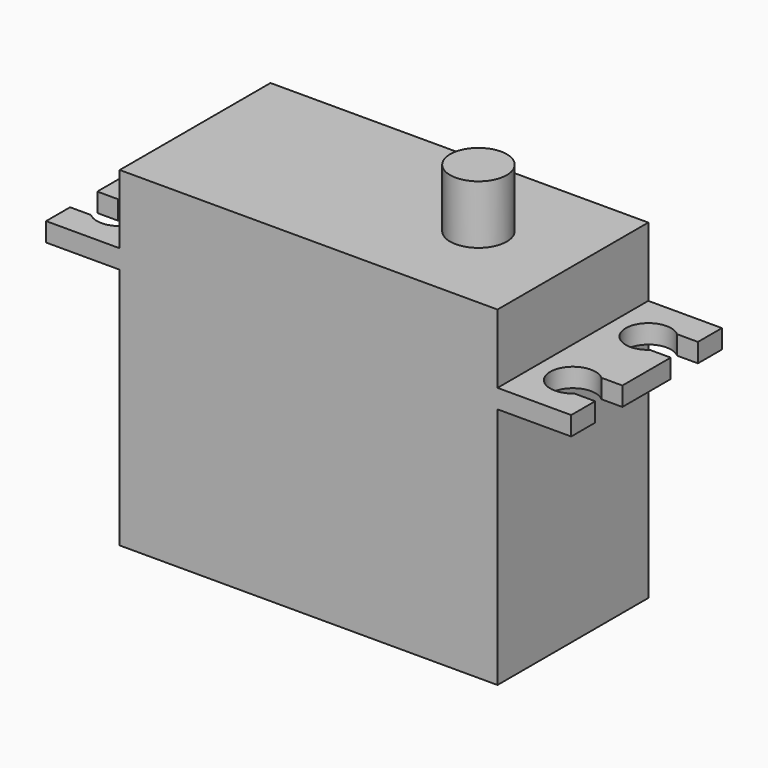
from build123d import *

# Parameters (mm, degrees)
SKETCH003_R      = 3
EXTRUDE004_DEPTH = 15.5
EXTRUDE002_DEPTH = 2
SKETCH001_W      = 40
SKETCH001_H      = 19.95
EXTRUDE001_DEPTH = 35


with BuildPart() as extrude004:
    # Sketch003 → Extrude004 (new body)
    with BuildSketch(Plane.XY):
        Circle(SKETCH003_R)
    extrude(amount=EXTRUDE004_DEPTH)


with BuildPart() as fusion:
    # Sketch → Extrude002 (new body)
    with BuildSketch(Plane.XY):
        with BuildLine():
            Line((-37.8, 9.975), (17.8, 9.975))
            Line((17.8, 9.975), (17.8, 6.8))
            Line((15.587451, 6.8), (17.8, 6.8))
            ThreePointArc((15.587451, 6.8), (11.6, 5), (15.587451, 3.2))
            Line((15.587451, 3.2), (17.8, 3.2))
            Line((17.8, -3.2), (17.8, 3.2))
            Line((15.587451, -3.2), (17.8, -3.2))
            ThreePointArc((15.587451, -3.2), (11.6, -5), (15.587451, -6.8))
            Line((15.587451, -6.8), (17.8, -6.8))
            Line((17.8, -6.8), (17.8, -9.975))
            Line((17.8, -9.975), (-37.8, -9.975))
            Line((-37.8, -9.975), (-37.8, -6.8))
            Line((-37.8, -6.8), (-35.587451, -6.8))
            ThreePointArc((-35.587451, -6.8), (-31.6, -5), (-35.587451, -3.2))
            Line((-37.8, -3.2), (-35.587451, -3.2))
            Line((-37.8, 3.2), (-37.8, -3.2))
            Line((-35.587451, 3.2), (-37.8, 3.2))
            ThreePointArc((-35.587451, 3.2), (-31.6, 5), (-35.587451, 6.8))
            Line((-37.8, 6.8), (-35.587451, 6.8))
            Line((-37.8, 9.975), (-37.8, 6.8))
        make_face()
    extrude(amount=EXTRUDE002_DEPTH)

    # Fusion: union Extrude004
    add(extrude004.part)


with BuildPart() as fusion001:
    # Sketch001 → Extrude001 (new body)
    with BuildSketch(Plane.XY.offset(9.3)):
        with Locations((-10, 0)):
            Rectangle(SKETCH001_W, SKETCH001_H)
    extrude(amount=-EXTRUDE001_DEPTH)

    # Fusion001: union Fusion
    add(fusion.part)


solid = fusion001.part
